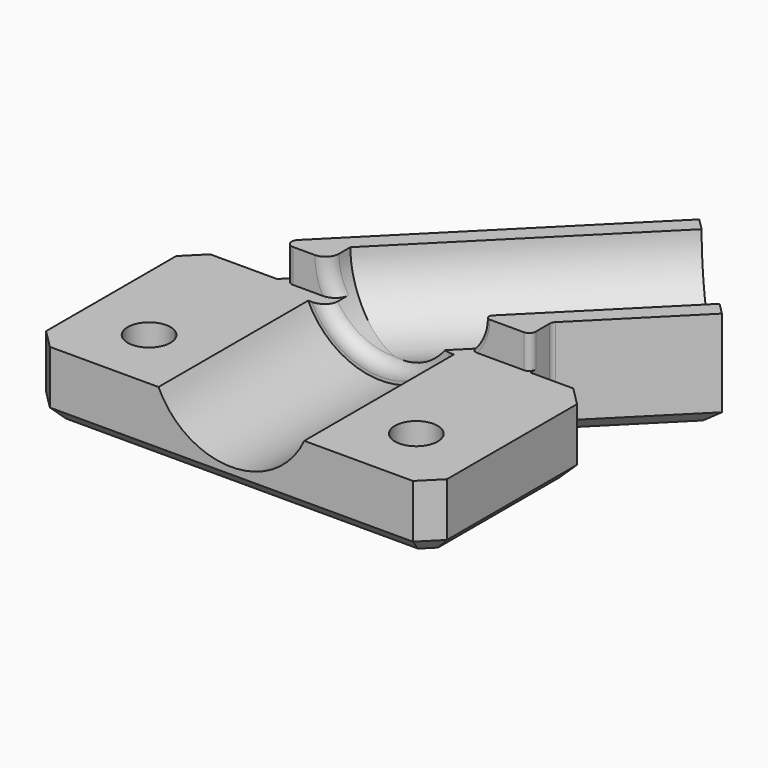
from build123d import *

# Parameters (mm, degrees)
SKETCH002_R     = 4.75
SKETCH_R        = 1.6
PAD_DEPTH       = 5
PAD001_DEPTH    = 2.5
SKETCH004_R     = 6
POCKET_DEPTH    = 14
FILLET_R        = 1
FILLET001_R     = 1
CHAMFER_SIZE    = 1
CHAMFER001_SIZE = 0.25
FILLET002_R     = 0.5
FILLET003_R     = 0.3


with BuildPart() as sweep_body:
    # Sweep: sweep along a path in Sketch003
    with BuildLine(Plane.XY.offset(7.5)) as sweep_path:
        Line((14.142136, 19.242641), (0, 5.100505))
        Line((0, 5.100505), (0, -5.899495))
    # Sketch002 → Sweep (sweep)
    with BuildSketch(Plane(origin=(15.763456, 15.763456, 0), x_dir=(-0.707107, 0.707107, 0), z_dir=(0.707107, 0.707107, 0))):
        with Locations((3.606602, 7.5)):
            Circle(SKETCH002_R)
    sweep(path=sweep_path.line, transition=Transition.RIGHT)


with BuildPart() as fillet003:
    # Sketch → Pad (new body)
    with BuildSketch(Plane.XY):
        Polygon((-15, 3.585786), (-15, -8.585786), (-13.585786, -10), (13.585786, -10), (15, -8.585786), (15, 3.585786), (13.585786, 5), (10.384776, 5), (10.384776, 7), (17.455844, 14.071068), (8.970563, 22.556349), (-8.585786, 5), (-13.585786, 5), align=None)
        with Locations((-10, -5.2)):
            Circle(SKETCH_R, mode=Mode.SUBTRACT)
        with Locations((10, -5.2)):
            Circle(SKETCH_R, mode=Mode.SUBTRACT)
    extrude(amount=PAD_DEPTH)

    # Sketch001 → Pad001 (new body)
    with BuildSketch(Plane.XY.offset(5)):
        Polygon((-8.585786, 5), (8.970563, 22.556349), (17.455844, 14.071068), (10.384776, 7), (10.384776, 5), align=None)
    extrude(amount=PAD001_DEPTH)

    # Cut: cut Sweep body
    add(sweep_body.part, mode=Mode.SUBTRACT)

    # Sketch004 → Pocket (cut)
    with BuildSketch(Plane.XZ.offset(10)):
        with Locations((0, 7.5)):
            Circle(SKETCH004_R)
    extrude(amount=-POCKET_DEPTH, mode=Mode.SUBTRACT)

    # Fillet
    fillet_edges = [fillet003.edges().sort_by_distance(p)[0] for p in [
        (-0.997031, 4, 2.855818),
    ]]
    fillet(fillet_edges, radius=FILLET_R)

    # Fillet001
    fillet001_edges = [fillet003.edges().sort_by_distance(p)[0] for p in [
        (-4.568761, 5, 6.200413),
    ]]
    fillet(fillet001_edges, radius=FILLET001_R)

    # Chamfer
    chamfer_edges = [fillet003.edges().sort_by_distance(p)[0] for p in [
        (0, -10, 0),
        (14.292893, -9.292893, 0),
        (15, -2.5, 0),
        (11.985281, 5, 0),
        (14.292893, 4.292893, 0),
        (10.384776, 6, 0),
        (13.92031, 10.535534, 0),
        (13.213203, 18.313708, 0),
        (0.192388, 13.778175, 0),
        (-11.085786, 5, 0),
        (-14.292893, 4.292893, 0),
        (-15, -2.5, 0),
        (-14.292893, -9.292893, 0),
    ]]
    chamfer(chamfer_edges, length=CHAMFER_SIZE)

    # Chamfer001
    chamfer001_edges = [fillet003.edges().sort_by_distance(p)[0] for p in [
        (-11.6, -5.2, 0),
        (8.4, -5.2, 0),
    ]]
    chamfer(chamfer001_edges, length=CHAMFER001_SIZE)

    # Fillet002
    fillet002_edges = [fillet003.edges().sort_by_distance(p)[0] for p in [
        (10.384776, 5, 6.25),
        (10.384776, 7, 4.25),
        (-8.585786, 5, 6.25),
    ]]
    fillet(fillet002_edges, radius=FILLET002_R)

    # Fillet003
    fillet003_edges = [fillet003.edges().sort_by_distance(p)[0] for p in [
        (6.343838, 5, 6.159209),
    ]]
    fillet(fillet003_edges, radius=FILLET003_R)


solid = fillet003.part
